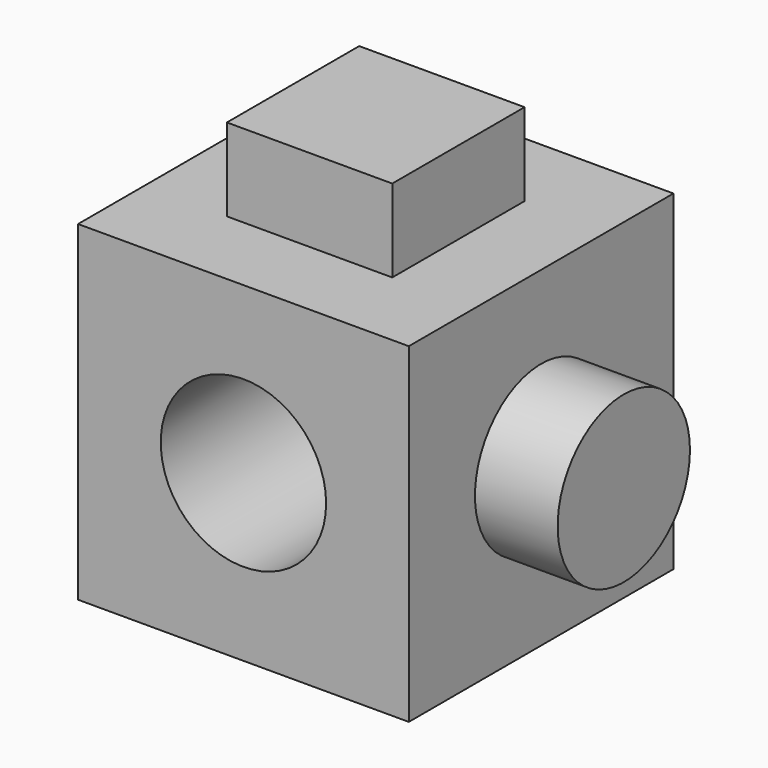
from build123d import *

# Parameters (mm, degrees)
F0_W     = 50.8
F0_H     = 50.8
F1_DEPTH = 50.8
F2_R     = 12.7
F3_DEPTH = 50.8
F4_W     = 25.4
F4_H     = 25.4
F5_DEPTH = 12.7
F6_R     = 12.7
F7_DEPTH = 12.7


with BuildPart() as f1:
    # F0 (on Front) → F1 (new body)
    with BuildSketch(Plane.XZ):
        with Locations((-20.841474, 6.851513)):
            Rectangle(F0_W, F0_H)
    extrude(amount=F1_DEPTH)

    # F2 (on face) → F3 (cut)
    with BuildSketch(Plane.XZ.offset(50.8)):
        with Locations((-20.841474, 6.851513)):
            Circle(F2_R)
    extrude(amount=-F3_DEPTH, mode=Mode.SUBTRACT)

    # F4 (on face) → F5 (join)
    with BuildSketch(Plane.XY.offset(32.251513)):
        with Locations((-20.841474, -25.4)):
            Rectangle(F4_W, F4_H)
    extrude(amount=F5_DEPTH)

    # F6 (on face) → F7 (join)
    with BuildSketch(Plane.YZ.offset(4.558526)):
        with Locations((-25.4, 6.851513)):
            Circle(F6_R)
    extrude(amount=F7_DEPTH)


solid = f1.part
